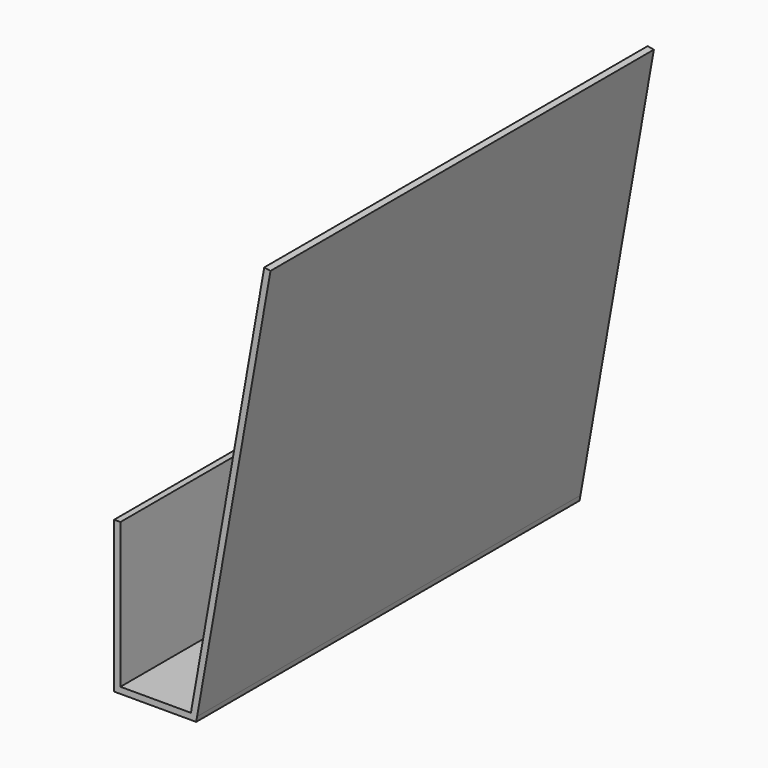
from build123d import *

# Parameters (mm, degrees)
F1_DEPTH = 482.6
F3_DEPTH = 6.35


with BuildPart() as f1:
    # F0 (on Front) → F1 (new body)
    with BuildSketch(Plane.XZ):
        Polygon((-69.85, 0), (0, 0), (1.085914, 6.158524), (0, 6.35), (-69.85, 6.35), align=None)
        Polygon((1.085914, 6.158524), (0, 0), (6.447959, 0), (7.339443, 5.055858), align=None)
        Polygon((74.981283, 425.239988), (1.085914, 6.158524), (7.339443, 5.055858), (81.234812, 424.137322), align=None)
        Polygon((-76.2, 0), (-69.85, 0), (-69.85, 6.35), (-69.85, 152.4), (-76.2, 152.4), align=None)
    extrude(amount=F1_DEPTH)

    # F2 (on Front) → F3 (join)
    with BuildSketch(Plane.XZ):
        Polygon((-76.2, 0), (0, 0), (26.39265, 152.4), (-76.2, 152.4), align=None)
    extrude(amount=F3_DEPTH)


solid = f1.part
